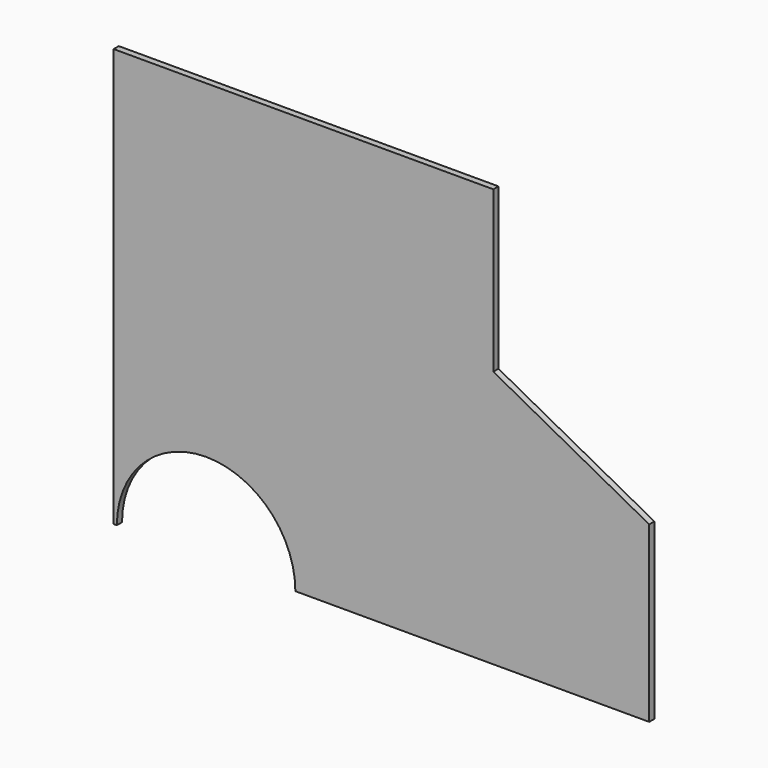
from build123d import *

# Parameters (mm, degrees)
F1_DEPTH = 2


with BuildPart() as f1:
    # F0 (on Front) → F1 (new body)
    with BuildSketch(Plane.XZ):
        with BuildLine():
            Line((0, 130), (0, 0))
            Line((0, 0), (1, 0))
            ThreePointArc((1, 0), (28.746162, 27.746162), (56.492324, 0))
            Line((56.492324, 0), (166.492324, 0))
            Line((166.492324, 0), (166.492324, 54.055144))
            Line((166.492324, 54.055144), (118.043213, 80.087502))
            Line((118.043213, 80.087502), (118.043213, 130))
            Line((118.043213, 130), (0, 130))
        make_face()
    extrude(amount=F1_DEPTH)


solid = f1.part
